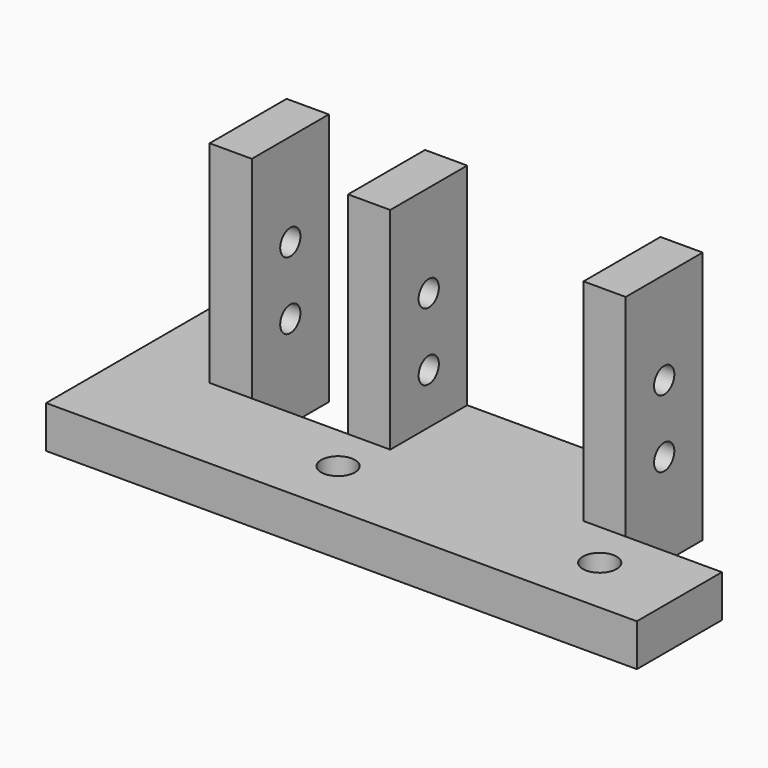
from build123d import *

# Parameters (mm, degrees)
SKETCH_W        = 70
SKETCH_H        = 24
SKETCH_R        = 2
PAD_DEPTH       = 5
SKETCH001_W     = 11.4
SKETCH001_H     = 11.4
POCKET_DEPTH    = 5.001
SKETCH002_W     = 5
SKETCH002_H     = 11.4
PAD001_DEPTH    = 25
SKETCH003_R     = 1.5
POCKET001_DEPTH = 58.601


with BuildPart() as part:
    # Sketch → Pad (new body)
    with BuildSketch(Plane.XY):
        with Locations((35, 12)):
            Rectangle(SKETCH_W, SKETCH_H)
        with Locations((60, 7)):
            Circle(SKETCH_R, mode=Mode.SUBTRACT)
        with Locations((29, 7)):
            Circle(SKETCH_R, mode=Mode.SUBTRACT)
    extrude(amount=PAD_DEPTH)

    # Sketch001 → Pocket (cut, through all)
    with BuildSketch(Plane.XY.offset(5)):
        with Locations((64.3, 18.3)):
            Rectangle(SKETCH001_W, SKETCH001_H)
        with Locations((20, 18.3)):
            Rectangle(SKETCH001_W, SKETCH001_H)
    extrude(amount=-POCKET_DEPTH, mode=Mode.SUBTRACT)

    # Sketch002 → Pad001 (new body)
    with BuildSketch(Plane.XY.offset(5)):
        with Locations((11.8, 18.3)):
            Rectangle(SKETCH002_W, SKETCH002_H)
        with Locations((28.2, 18.3)):
            Rectangle(SKETCH002_W, SKETCH002_H)
        with Locations((56.1, 18.3)):
            Rectangle(SKETCH002_W, SKETCH002_H)
    extrude(amount=PAD001_DEPTH)

    # Sketch003 → Pocket001 (cut, through all)
    with BuildSketch(Plane.YZ.offset(58.6)):
        with Locations((18.3, 19)):
            Circle(SKETCH003_R)
        with Locations((18.3, 11)):
            Circle(SKETCH003_R)
    extrude(amount=-POCKET001_DEPTH, mode=Mode.SUBTRACT)


solid = part.part
